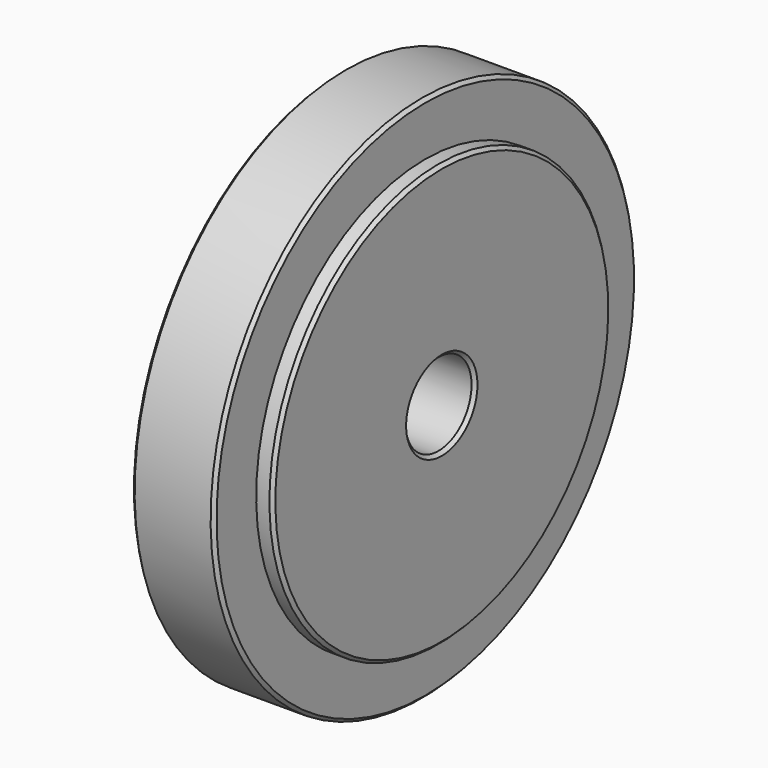
from build123d import *

# Parameters (mm, degrees)
F2_R     = 12.5
F3_DEPTH = 40
F4_SIZE  = 1


with BuildPart() as f1:
    # F0 (on Front) → F1 (revolve)
    with BuildSketch(Plane.XZ):
        Polygon((25, 80), (0, 80), (0, 0), (30, 0), (30, 64), (25, 64), align=None)
    revolve(axis=Axis((15, 0, 0), (-1, 0, 0)))

    # F2 (on face) → F3 (cut)
    with BuildSketch(Plane.YZ.offset(30)):
        Circle(F2_R)
    extrude(amount=-F3_DEPTH, mode=Mode.SUBTRACT)

    # F4
    f4_edges = [f1.edges().sort_by_distance(p)[0] for p in [
        (30, 0, -64),
        (30, -12.5, 0),
        (25, 0, -80),
        (0, 0, -80),
        (0, -12.5, 0),
    ]]
    chamfer(f4_edges, length=F4_SIZE)


solid = f1.part
